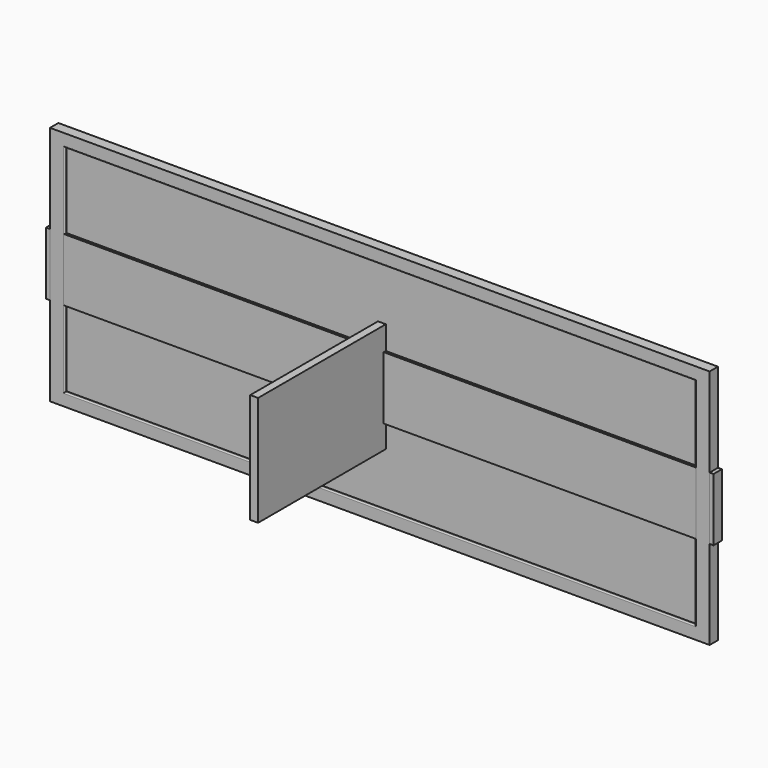
from build123d import *

# Parameters (mm, degrees)
F0_W      = 19.05
F0_H      = 266.7
F1_DEPTH  = 406.4
F2_W      = 1600.2
F2_H      = 101.6
F4_DEPTH  = 25.4
F5_W      = 1600.2
F5_H      = 584.2
F6_DEPTH  = 25.4
F7_W      = 1619.25
F7_H      = 152.4
F8_DEPTH  = 25.4
F9_W      = 1530.010342598
F9_H      = 523.2815742493
F10_DEPTH = 6.35
F12_R     = 2.54


with BuildPart() as f1:
    # F0 (on Front) → F1 (new body)
    with BuildSketch(Plane.XZ):
        Rectangle(F0_W, F0_H)
    extrude(amount=F1_DEPTH)


with BuildPart() as f4:
    # F2 (on Front) → F4 (new body)
    with BuildSketch(Plane.XZ):
        Rectangle(F2_W, F2_H)
    extrude(amount=F4_DEPTH)


with BuildPart() as f6:
    # F5 (on Front) → F6 (new body)
    with BuildSketch(Plane.XZ):
        Rectangle(F5_W, F5_H)
    extrude(amount=F6_DEPTH)


with BuildPart() as f8:
    # F7 (on Front) → F8 (new body)
    with BuildSketch(Plane.XZ):
        Rectangle(F7_W, F7_H)
    extrude(amount=F8_DEPTH)


with BuildPart() as f10:
    # F9 (on face) → F10 (new body, symmetric)
    with BuildSketch(Plane.XZ.offset(25.4)):
        Rectangle(F9_W, F9_H)
    extrude(amount=F10_DEPTH, both=True)


with BuildPart() as f6_1:
    add(f6.part)

    # F11: cut F10
    add(f10.part, mode=Mode.SUBTRACT)

    # F12
    f12_edges = [f6_1.edges().sort_by_distance(p)[0] for p in [
        (0, -25.4, 261.640787),
        (-765.005171, -25.4, 0),
        (0, -25.4, -261.640787),
        (765.005171, -25.4, 0),
    ]]
    fillet(f12_edges, radius=F12_R)


solid = Compound([f1.part, f4.part, f8.part, f6_1.part])
